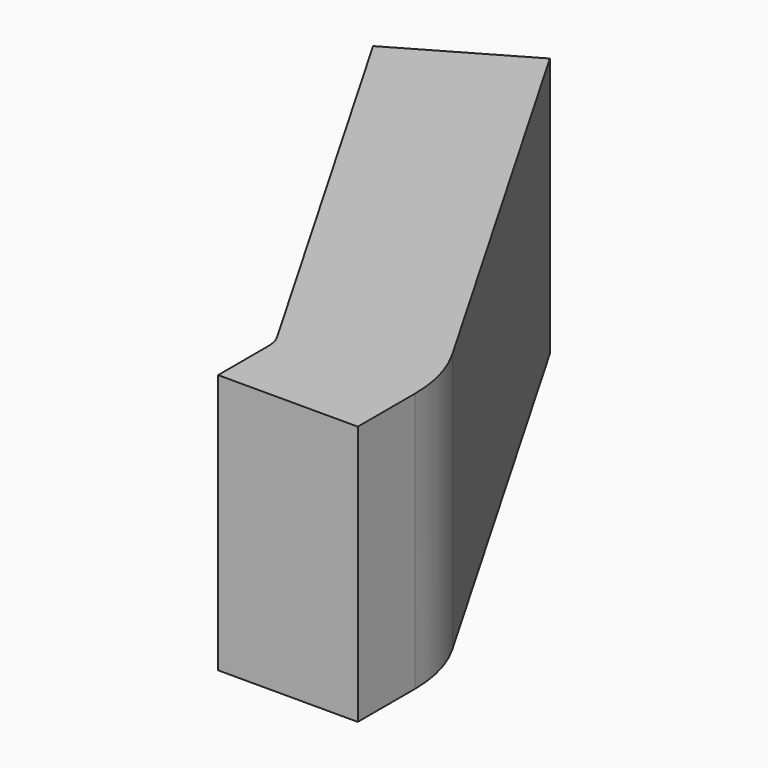
from build123d import *

# Parameters (mm, degrees)
F0_W      = 105.1309853792
F0_H      = 195.6836879253
F1_DEPTH  = 53.975
F1_FACE_W = 105.1309853792
F1_FACE_H = 195.6836879253
F2_ANGLE  = 30
F3_DEPTH  = 381
F4_R      = 25.4
F5_R      = 27.7266508926
F6_DEPTH  = 25.4


with BuildPart() as f1:
    # F0 (on Front) → F1 (new body)
    with BuildSketch(Plane.XZ):
        with Locations((-20.0917944312, 0)):
            Rectangle(F0_W, F0_H)
    extrude(amount=F1_DEPTH)

    # F1_face (on face) → F2 (revolve)
    with BuildSketch(Plane(origin=(-20.0917944312, 0, 0), x_dir=(1, 0, 0), z_dir=(0, 1, 0))):
        Rectangle(F1_FACE_W, F1_FACE_H)
    revolve(axis=Axis((-72.6572871208, 0, 0), (0, 0, 1)), revolution_arc=F2_ANGLE)

    # F3 (add): a face of the model
    f3_faces = [f1.faces().sort_by_distance(p)[0] for p in [
        (-27.1342350892, 26.2827463448, 0),
    ]]
    extrude(f3_faces, amount=F3_DEPTH)

    # F4
    f4_edges = [f1.edges().sort_by_distance(p)[0] for p in [
        (-72.657287, 0, 0),
    ]]
    fillet(f4_edges, radius=F4_R)

    # F5 (on face) → F6 (cut)
    with BuildSketch(Plane(origin=(-54.4929653406, -31.4615282083, 0), x_dir=(0.5, -0.8660254038, 0), z_dir=(-0.8660254038, -0.5, 0))):
        with Locations((-196.3157951832, 0)):
            Circle(F5_R)
    extrude(amount=-F6_DEPTH, mode=Mode.SUBTRACT)


solid = f1.part
